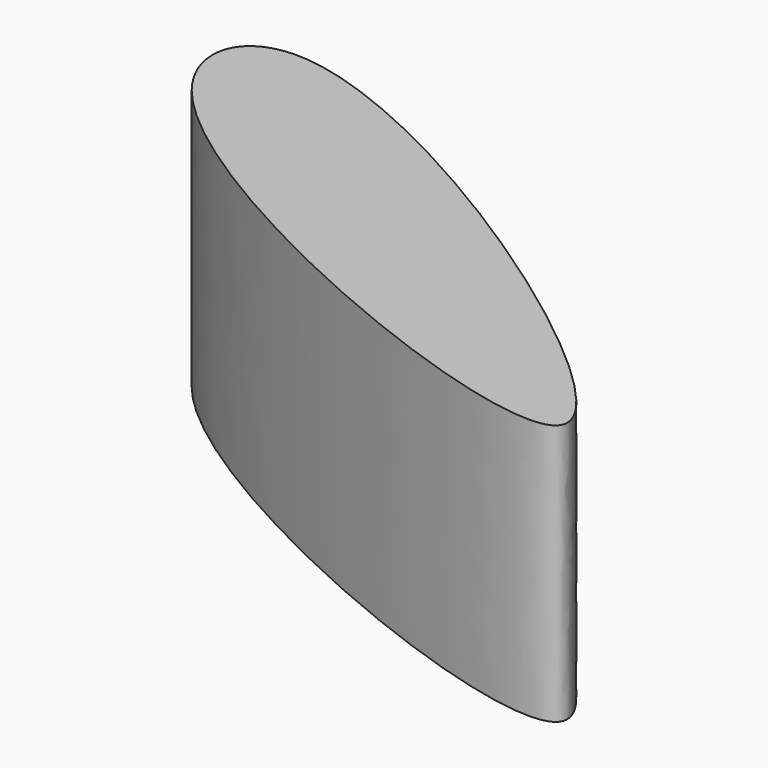
from build123d import *

# Parameters (mm, degrees)
F1_DEPTH = 25.4


with BuildPart() as f1:
    # F0 (on Top) → F1 (new body)
    with BuildSketch(Plane.XY):
        with BuildLine():
            add(Edge.make_bspline(
                [(-30.1915556192, 0), (-19.9333561398, -12.9326914884), (69.1022511194, -48.6929404098), (-29.6289157408, 20.778178555), (-34.2938517979, 5.1718365371), (-30.1915556192, 0)],
                knots=[0, 0, 0, 0, 0.4137534056, 0.8345383107, 1, 1, 1, 1], degree=3))
        make_face()
    extrude(amount=F1_DEPTH)


solid = f1.part
